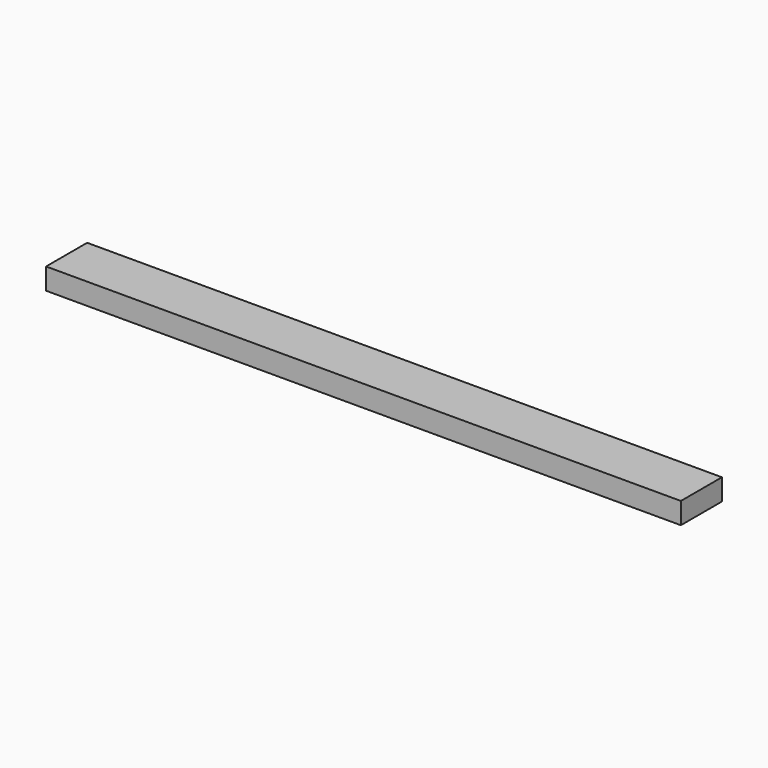
from build123d import *

# Parameters (mm, degrees)
F1_DEPTH      = 5
F1_DEPTH_BACK = 5


with BuildPart() as f1:
    # F0 (on Top) → F1 (new body, two sides)
    with BuildSketch(Plane.XY) as f1_sk:
        Polygon((142.402977, 12), (-154.432267, 12), (-154.432267, -12), (42.583915, -12), (142.402977, -12), align=None)
    extrude(amount=F1_DEPTH)
    extrude(f1_sk.sketch, amount=-F1_DEPTH_BACK)


solid = f1.part
